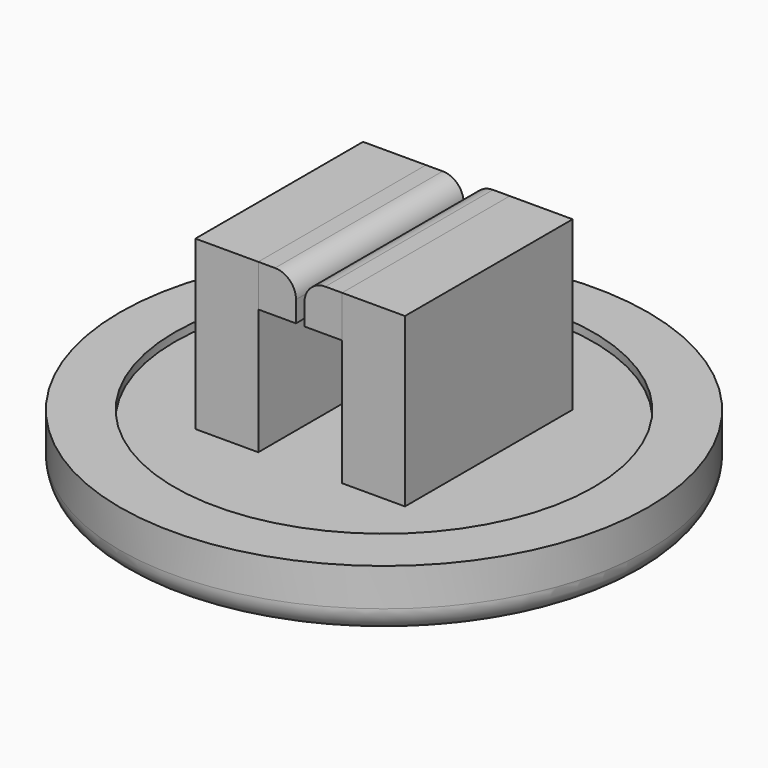
from build123d import *

# Parameters (mm, degrees)
F0_R     = 8.001
F1_DEPTH = 1.905
F2_T     = -1.651
F3_W     = 1.905
F3_H     = 6.35
F7_DEPTH = 5.08
F8_W     = 1.143
F8_H     = 6.35
F4_W     = 1.143
F4_H     = 6.35
F9_DEPTH = 1.27
F5_R     = 0.762
F6_R     = 0.635


with BuildPart() as f1:
    # F0 (on Top) → F1 (new body)
    with BuildSketch(Plane.XY):
        Circle(F0_R)
    extrude(amount=F1_DEPTH)

    # F2
    f2_openings = [f1.faces().sort_by_distance(p)[0] for p in [
        (0, 0, 1.905),
    ]]
    offset(amount=F2_T, openings=f2_openings)

    # F3 (on face) → F7 (join)
    with BuildSketch(Plane.XY.offset(1.651)):
        with Locations((2.2225, 0)):
            Rectangle(F3_W, F3_H)
        with Locations((-2.2225, 0)):
            Rectangle(F3_W, F3_H)
    extrude(amount=F7_DEPTH)

    # F5
    f5_edges = [f1.edges().sort_by_distance(p)[0] for p in [
        (-8.001, 0, 0),
    ]]
    fillet(f5_edges, radius=F5_R)


with BuildPart() as f9:
    # F8 (on face) + F4 (on face) → F9 (new body)
    with BuildSketch(Plane.XY.offset(6.731)):
        with Locations((0.6985, 0)):
            Rectangle(F8_W, F8_H)
    with BuildSketch(Plane.XY.offset(6.731)):
        with Locations((-0.6985, 0)):
            Rectangle(F4_W, F4_H)
    extrude(amount=-F9_DEPTH)

    # F6
    f6_edges = [f9.edges().sort_by_distance(p)[0] for p in [
        (-0.127, 0, 6.731),
        (0.127, 0, 6.731),
    ]]
    fillet(f6_edges, radius=F6_R)


solid = Compound([f1.part, f9.part])
